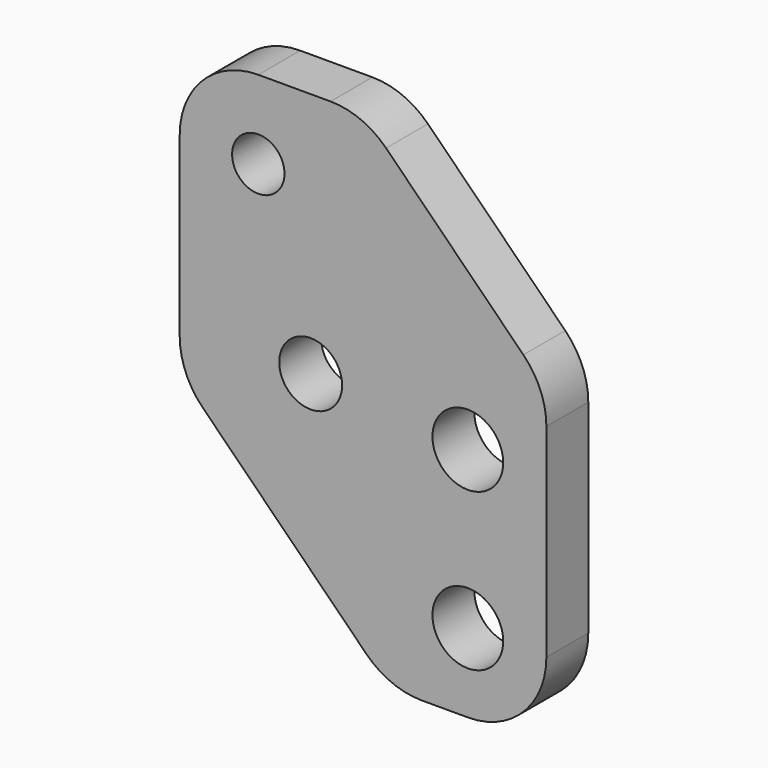
from build123d import *

# Parameters (mm, degrees)
F0_R     = 8.5725
F0_R_2   = 7.62
F0_R_3   = 6.35
F1_DEPTH = 12.7


with BuildPart() as f1:
    # F0 (on Front) → F1 (new body)
    with BuildSketch(Plane.XZ):
        with BuildLine():
            Line((-49.187231, -29.101513), (-38.028, -29.101513))
            ThreePointArc((-38.028, -29.101513), (-24.557615, -23.521898), (-18.978, -10.051513))
            Line((-18.978, -10.051513), (-18.978, 39.207718))
            ThreePointArc((-18.978, 39.207718), (-20.428094, 46.497838), (-24.557615, 52.678102))
            Line((-24.557615, 52.678102), (-57.848384, 85.968871))
            ThreePointArc((-57.848384, 85.968871), (-64.028649, 90.098392), (-71.318768, 91.548487))
            Line((-71.318768, 91.548487), (-88.828, 91.548487))
            ThreePointArc((-88.828, 91.548487), (-102.298384, 85.968871), (-107.878, 72.498487))
            Line((-107.878, 72.498487), (-107.878, 47.098487))
            Line((-107.878, 47.098487), (-107.878, 29.589255))
            ThreePointArc((-107.878, 29.589255), (-106.427905, 22.299136), (-102.298384, 16.118871))
            Line((-102.298384, 16.118871), (-62.657615, -23.521898))
            ThreePointArc((-62.657615, -23.521898), (-56.477351, -27.651418), (-49.187231, -29.101513))
        make_face()
        with Locations((-38.028, -10.051513)):
            Circle(F0_R, mode=Mode.SUBTRACT)
        with Locations((-38.028, 28.048487)):
            Circle(F0_R, mode=Mode.SUBTRACT)
        with Locations((-76.128, 31.858487)):
            Circle(F0_R_2, mode=Mode.SUBTRACT)
        with Locations((-88.828, 72.498487)):
            Circle(F0_R_3, mode=Mode.SUBTRACT)
    extrude(amount=F1_DEPTH)


solid = f1.part
